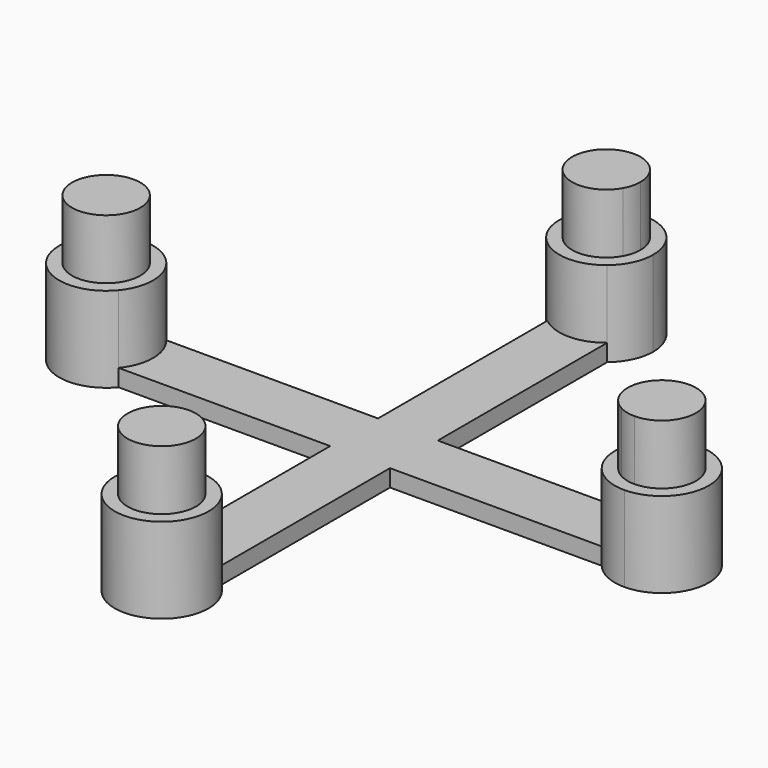
from build123d import *

# Parameters (mm, degrees)
F1_DEPTH = 2
F2_DEPTH = 10
F3_DEPTH = 17
F6_COUNT = 4


with BuildPart() as f1:
    # F0 (on Top) → F1 (new body)
    with BuildSketch(Plane.XY):
        with BuildLine():
            Line((0, 28.2842712475), (0, 0))
            Line((0, 0), (7, 0))
            Line((7, 0), (7, 28.2842712475))
            ThreePointArc((7, 28.2842712475), (3.5, 27.0269119346), (0, 28.2842712475))
        make_face()
    extrude(amount=F1_DEPTH)

    # F0 (on Top) → F2 (join)
    with BuildSketch(Plane.XY):
        with BuildLine():
            ThreePointArc((9, 32.5269119346), (1.1547921201, 37.5018491201), (0, 28.2842712475))
            Line((0, 28.2842712475), (0, 30.5904202615))
            ThreePointArc((0, 30.5904202615), (2.5, 36.3998952808), (7.5, 32.5269119346))
            ThreePointArc((7.5, 32.5269119346), (7.3729833462, 31.5269119346), (7, 30.5904202615))
            Line((7, 30.5904202615), (7, 28.2842712475))
            ThreePointArc((7, 28.2842712475), (8.4749371855, 30.1817040547), (9, 32.5269119346))
        make_face()
        with BuildLine():
            Line((0, 30.5904202615), (0, 28.2842712475))
            ThreePointArc((0, 28.2842712475), (3.5, 27.0269119346), (7, 28.2842712475))
            Line((7, 28.2842712475), (7, 30.5904202615))
            ThreePointArc((7, 30.5904202615), (3.5, 28.5269119346), (0, 30.5904202615))
        make_face()
    extrude(amount=F2_DEPTH)

    # F0 (on Top) → F3 (join)
    with BuildSketch(Plane.XY):
        with BuildLine():
            ThreePointArc((7.5, 32.5269119346), (2.5, 36.3998952808), (0, 30.5904202615))
            Line((0, 30.5904202615), (0, 32.5269119346))
            Line((0, 32.5269119346), (7, 32.5269119346))
            Line((7, 32.5269119346), (7, 30.5904202615))
            ThreePointArc((7, 30.5904202615), (7.3729833462, 31.5269119346), (7.5, 32.5269119346))
        make_face()
        with BuildLine():
            Line((0, 32.5269119346), (0, 30.5904202615))
            ThreePointArc((0, 30.5904202615), (3.5, 28.5269119346), (7, 30.5904202615))
            Line((7, 30.5904202615), (7, 32.5269119346))
            Line((7, 32.5269119346), (0, 32.5269119346))
        make_face()
    extrude(amount=F3_DEPTH)

    # F6: F1 ×4 about axis
    f6_axis = Axis((3.5, 0, 21.1911313236), (0, 0, 1))


with BuildPart() as f1_1:
    add(f1.part)
    for i in range(1, F6_COUNT):
        add(f1.part.rotate(f6_axis, i * 360 / F6_COUNT))


solid = f1_1.part
